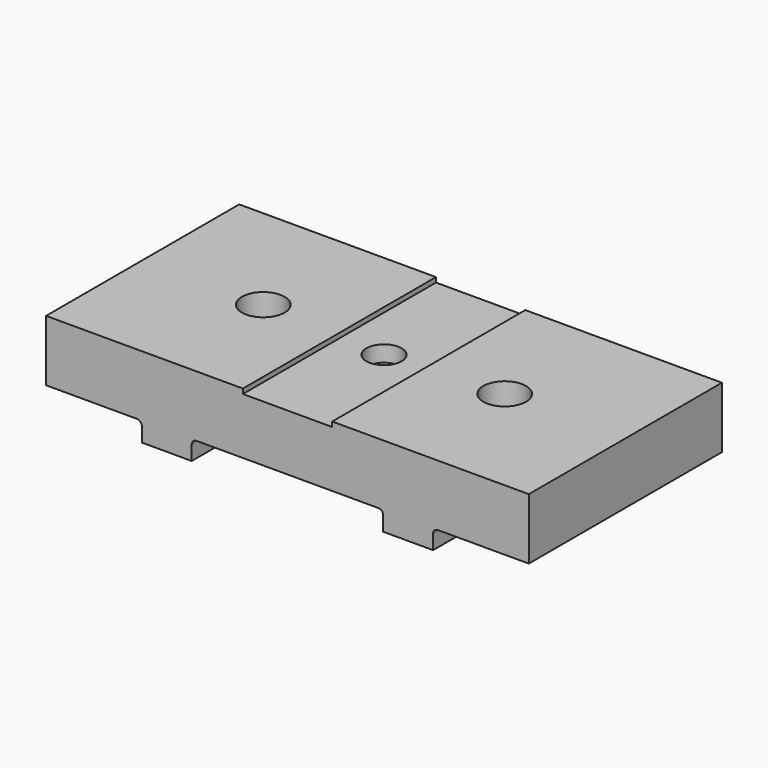
from build123d import *

# Parameters (mm, degrees)
F0_W      = 76.2
F0_H      = 38.1
F1_DEPTH  = 12.7
F2_W      = 14.097
F2_H      = 38.1
F3_DEPTH  = 0.762
F4_W      = 15.113
F4_H      = 3.048
F4_W_2    = 30.226
F5_DEPTH  = 38.101
F6_R      = 9.525
F7_DEPTH  = 6.35
F8_R      = 2.7813
F9_DEPTH  = 3.303
F10_R     = 3.3782
F11_DEPTH = 12.701
F12_R     = 0.762


with BuildPart() as f1:
    # F0 (on Top) → F1 (new body)
    with BuildSketch(Plane.XY):
        with Locations((38.1, -19.05)):
            Rectangle(F0_W, F0_H)
    extrude(amount=-F1_DEPTH)

    # F2 (on face) → F3 (cut)
    with BuildSketch(Plane.XY):
        with Locations((38.1127, -19.05)):
            Rectangle(F2_W, F2_H)
    extrude(amount=-F3_DEPTH, mode=Mode.SUBTRACT)

    # F4 (on face) → F5 (cut, through all)
    with BuildSketch(Plane(origin=(0, 0, 0), x_dir=(-1, 0, 0), z_dir=(0, 1, 0))):
        with Locations((-68.6435, -11.176)):
            Rectangle(F4_W, F4_H)
        with Locations((-38.1, -11.176)):
            Rectangle(F4_W_2, F4_H)
        with Locations((-7.5565, -11.176)):
            Rectangle(F4_W, F4_H)
    extrude(amount=-F5_DEPTH, mode=Mode.SUBTRACT)

    # F6 (on face) → F7 (cut)
    with BuildSketch(Plane(origin=(0, 0, -9.652), x_dir=(1, 0, 0), z_dir=(0, 0, -1))):
        with Locations((38.1, 19.05)):
            Circle(F6_R)
    extrude(amount=-F7_DEPTH, mode=Mode.SUBTRACT)

    # F8 (on face) → F9 (cut, through all)
    with BuildSketch(Plane(origin=(0, 0, -3.302), x_dir=(1, 0, 0), z_dir=(0, 0, -1))):
        with Locations((38.1, 19.05)):
            Circle(F8_R)
    extrude(amount=-F9_DEPTH, mode=Mode.SUBTRACT)

    # F10 (on face) → F11 (cut, through all)
    with BuildSketch(Plane(origin=(0, 0, -12.7), x_dir=(1, 0, 0), z_dir=(0, 0, -1))):
        with Locations((19.05, 19.05)):
            Circle(F10_R)
        with Locations((57.15, 19.05)):
            Circle(F10_R)
    extrude(amount=-F11_DEPTH, mode=Mode.SUBTRACT)

    # F12
    f12_edges = [f1.edges().sort_by_distance(p)[0] for p in [
        (22.987, -19.05, -9.652),
        (53.213, -19.05, -9.652),
        (15.113, -19.05, -9.652),
        (61.087, -19.05, -9.652),
    ]]
    fillet(f12_edges, radius=F12_R)


solid = f1.part
